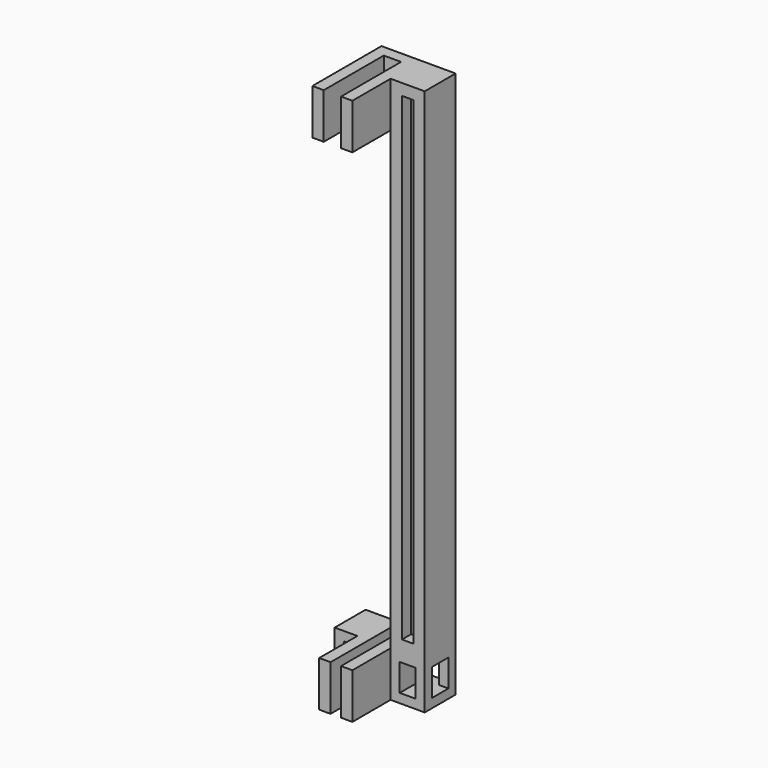
from build123d import *

# Parameters (mm, degrees)
F1_DEPTH  = 10
F2_W      = 7.5
F2_H      = 8.5
F3_DEPTH  = 110.255
F5_DEPTH  = 10
F6_W      = 4.5
F6_H      = 6
F7_DEPTH  = 5
F8_W      = 3
F8_H      = 6
F9_DEPTH  = 8.501
F10_W     = 4.5
F10_H     = 6
F11_DEPTH = 5
F12_W     = 3.5
F12_H     = 6
F13_DEPTH = 8.501
F14_W     = 2.5
F14_H     = 105.255
F15_DEPTH = 2.5
F16_W     = 2.5
F16_H     = 105.255
F17_DEPTH = 2.5


with BuildPart() as f1:
    # F0 (on Top) → F1 (new body)
    with BuildSketch(Plane.XY):
        Polygon((0, -8.5), (0, 0), (-19.8, 0), (-19.8, -8.5), (-14.8, -8.5), (-14.8, -19), (-12.3, -19), (-12.3, -2.5), (-10, -2.5), (-10, -19), (-7.5, -19), (-7.5, -8.5), align=None)
    extrude(amount=F1_DEPTH)

    # F2 (on face) → F3 (join)
    with BuildSketch(Plane.XY.offset(10)):
        with Locations((-3.75, -4.25)):
            Rectangle(F2_W, F2_H)
    extrude(amount=F3_DEPTH)

    # F4 (on face) → F5 (join)
    with BuildSketch(Plane.XY.offset(120.255)):
        Polygon((-7.5, -19), (-7.5, 0), (-16.3, 0), (-16.3, -19), (-13.8, -19), (-13.8, -2.5), (-10, -2.5), (-10, -19), align=None)
    extrude(amount=-F5_DEPTH)

    # F6 (on face) → F7 (cut, through all)
    with BuildSketch(Plane(origin=(-19.8, 0, 0), x_dir=(0, -1, 0), z_dir=(-1, 0, 0))):
        with Locations((4.25, 5)):
            Rectangle(F6_W, F6_H)
    extrude(amount=-F7_DEPTH, mode=Mode.SUBTRACT)

    # F8 (on face) → F9 (cut, through all)
    with BuildSketch(Plane.XZ.offset(8.5)):
        with Locations((-16.3, 5)):
            Rectangle(F8_W, F8_H)
    extrude(amount=-F9_DEPTH, mode=Mode.SUBTRACT)

    # F10 (on face) → F11 (cut)
    with BuildSketch(Plane.YZ):
        with Locations((-4.25, 5)):
            Rectangle(F10_W, F10_H)
    extrude(amount=-F11_DEPTH, mode=Mode.SUBTRACT)

    # F12 (on face) → F13 (cut, through all)
    with BuildSketch(Plane.XZ.offset(8.5)):
        with Locations((-3.75, 5)):
            Rectangle(F12_W, F12_H)
    extrude(amount=-F13_DEPTH, mode=Mode.SUBTRACT)

    # F14 (on face) → F15 (cut)
    with BuildSketch(Plane(origin=(0, 0, 0), x_dir=(-1, 0, 0), z_dir=(0, 1, 0))):
        with Locations((3.75, 65.1275)):
            Rectangle(F14_W, F14_H)
    extrude(amount=-F15_DEPTH, mode=Mode.SUBTRACT)

    # F16 (on face) → F17 (cut)
    with BuildSketch(Plane.XZ.offset(8.5)):
        with Locations((-3.75, 65.1275)):
            Rectangle(F16_W, F16_H)
    extrude(amount=-F17_DEPTH, mode=Mode.SUBTRACT)


solid = f1.part
